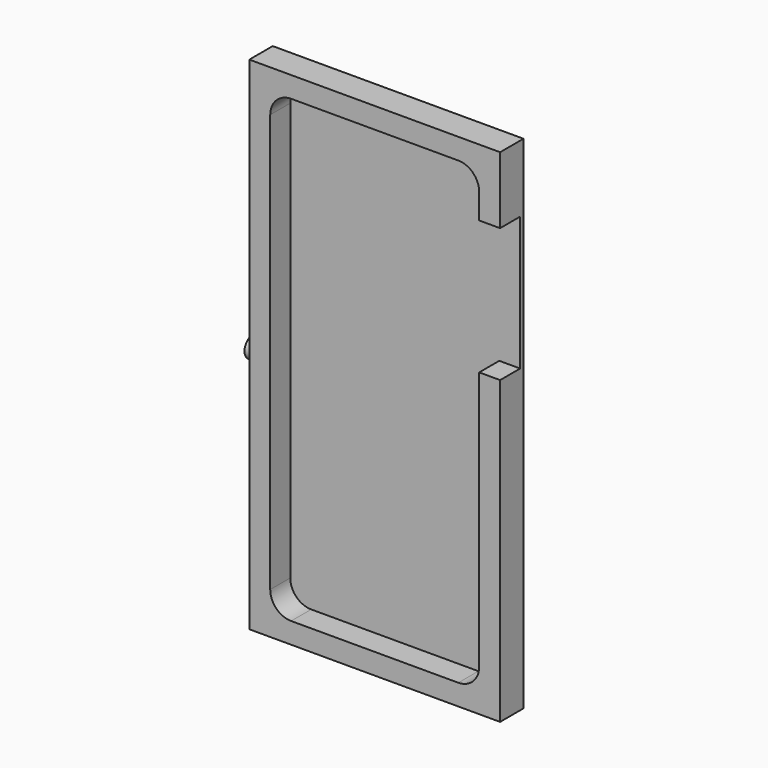
from build123d import *

# Parameters (mm, degrees)
F0_W      = 76.2
F0_H      = 152.4
F1_DEPTH  = 8.89
F3_DEPTH  = 7.62
F4_W      = 6.35
F4_H      = 40.64
F5_DEPTH  = 7.62
F7_DEPTH  = 2.54
F7_FACE_R = 3.175
F8_DEPTH  = 5.08
F9_R      = 3.175
F10_DEPTH = 6.35
F11_W     = 12.7
F11_H     = 63.5
F12_DEPTH = 8.89
F13_W     = 2.54
F13_H     = 63.5
F14_DEPTH = 25.4


with BuildPart() as f1:
    # F0 (on Front) → F1 (new body)
    with BuildSketch(Plane.XZ):
        with Locations((-38.1, 82.721622)):
            Rectangle(F0_W, F0_H)
    extrude(amount=F1_DEPTH)

    # F2 (on face) → F3 (cut)
    with BuildSketch(Plane.XZ.offset(8.89)):
        with BuildLine():
            ThreePointArc((-69.85, 19.221622), (-67.990128, 14.731494), (-63.5, 12.871622))
            Line((-63.5, 12.871622), (-12.7, 12.871622))
            ThreePointArc((-12.7, 12.871622), (-8.209872, 14.731494), (-6.35, 19.221622))
            Line((-6.35, 19.221622), (-6.35, 146.221622))
            ThreePointArc((-6.35, 146.221622), (-8.209872, 150.71175), (-12.7, 152.571622))
            Line((-12.7, 152.571622), (-50.255585, 152.571622))
            Line((-50.255585, 152.571622), (-63.5, 152.571622))
            ThreePointArc((-63.5, 152.571622), (-67.990128, 150.71175), (-69.85, 146.221622))
            Line((-69.85, 146.221622), (-69.85, 115.075722))
            Line((-69.85, 115.075722), (-69.85, 19.221622))
        make_face()
    extrude(amount=-F3_DEPTH, mode=Mode.SUBTRACT)

    # F4 (on face) → F5 (cut)
    with BuildSketch(Plane.XZ.offset(8.89)):
        with Locations((-3.175, 118.281622)):
            Rectangle(F4_W, F4_H)
    extrude(amount=-F5_DEPTH, mode=Mode.SUBTRACT)

    # F6 (on face) → F7 (cut)
    with BuildSketch(Plane(origin=(-76.2, 0, 0), x_dir=(0, -1, 0), z_dir=(-1, 0, 0))):
        with BuildLine():
            ThreePointArc((4.445, 76.371622), (6.64402, 77.326013), (7.548988, 79.545828))
            ThreePointArc((7.548988, 79.545828), (2.103956, 81.765643), (4.445, 76.371622))
        make_face()
    extrude(amount=-F7_DEPTH, mode=Mode.SUBTRACT)

    # F7_face (on face) → F8 (join)
    with BuildSketch(Plane(origin=(-73.66, -4.373988, 79.545828), x_dir=(0, -1, 0), z_dir=(-1, 0, 0))):
        Circle(F7_FACE_R)
    extrude(amount=F8_DEPTH)

    # F9 (on face) → F10 (join)
    with BuildSketch(Plane(origin=(0, 0, 0), x_dir=(-1, 0, 0), z_dir=(0, 1, 0))):
        with Locations((38.1, 82.721622)):
            Circle(F9_R)
    extrude(amount=F10_DEPTH)

    # F11 (on face) → F12 (join)
    with BuildSketch(Plane(origin=(0, 0, 0), x_dir=(-1, 0, 0), z_dir=(0, 1, 0))):
        with Locations((57.15, 114.471622)):
            Rectangle(F11_W, F11_H)
    extrude(amount=F12_DEPTH)

    # F13 (on face) → F14 (join)
    with BuildSketch(Plane.YZ.offset(-50.8)):
        with Locations((7.62, 114.471622)):
            Rectangle(F13_W, F13_H)
    extrude(amount=F14_DEPTH)


solid = f1.part
